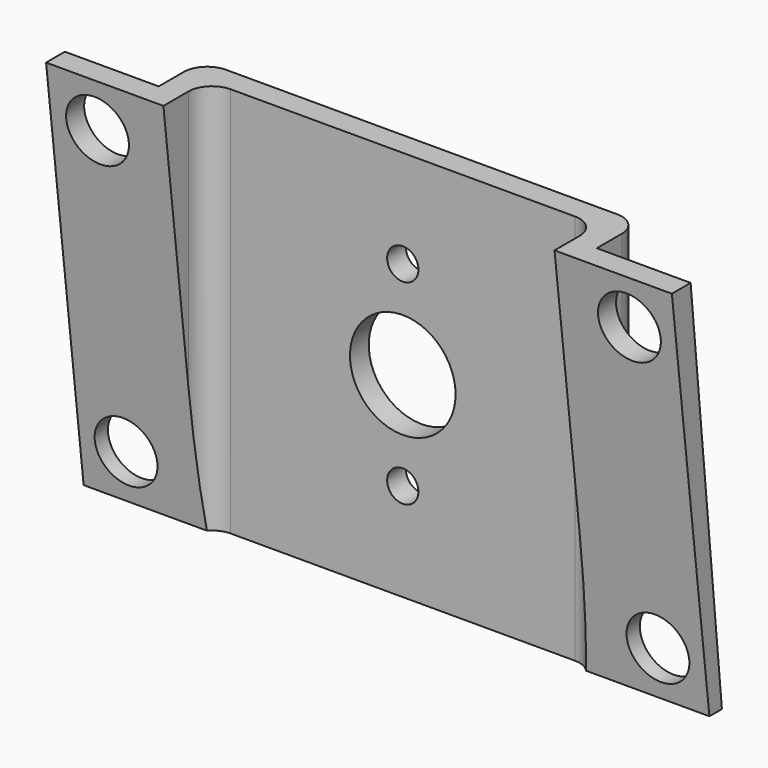
from build123d import *

# Parameters (mm, degrees)
F0_W     = 50
F0_H     = 50
F0_R     = 2
F0_R_2   = 6.75
F1_DEPTH = 3
F3_START = 25
F3_DEPTH = 3
F5_START = -25
F5_DEPTH = 3
F7_START = 25
F7_DEPTH = 15
F8_START = -25
F8_DEPTH = 15
F10_D    = 8
F11_R    = 3


with BuildPart() as f1:
    # F0 (on Front) → F1 (new body)
    with BuildSketch(Plane.XZ):
        Rectangle(F0_W, F0_H)
        with Locations((0, -12.5)):
            Circle(F0_R, mode=Mode.SUBTRACT)
        Circle(F0_R_2, mode=Mode.SUBTRACT)
        with Locations((0, 12.5)):
            Circle(F0_R, mode=Mode.SUBTRACT)
    extrude(amount=F1_DEPTH)

    # F2 (on Right) → F3 (join)
    with BuildSketch(Plane.YZ.offset(F3_START)):
        Polygon((0, 25), (-2, 25), (-7, 25), (-2, -25), (0, -25), align=None)
    extrude(amount=F3_DEPTH)

    # F4 (on Right) → F5 (join)
    with BuildSketch(Plane.YZ.offset(F5_START)):
        Polygon((0, -25), (0, 25), (-2, 25), (-7, 25), (-2, -25), align=None)
    extrude(amount=-F5_DEPTH)

    # F6 (on Right) → F7 (join)
    with BuildSketch(Plane.YZ.offset(F7_START)):
        Polygon((-2, -25), (-7, 25), (-10, 25), (-4, -25), align=None)
    extrude(amount=F7_DEPTH)

    # F6 (on Right) → F8 (join)
    with BuildSketch(Plane.YZ.offset(F8_START)):
        Polygon((-2, -25), (-7, 25), (-10, 25), (-4, -25), align=None)
    extrude(amount=-F8_DEPTH)

    # F10 (through all)
    with Locations(Plane(origin=(0, 0, 0), x_dir=(1, 0, 0), z_dir=(0, 1, 0))):
        with Locations((-34, -19), (-34, 19), (34, 19), (34, -19)):
            Hole(F10_D / 2)

    # F11
    f11_edges = [f1.edges().sort_by_distance(p)[0] for p in [
        (-28, 0, 0),
        (28, 0, 0),
        (25, -3, 0),
        (-25, -3, 0),
    ]]
    fillet(f11_edges, radius=F11_R)


solid = f1.part
